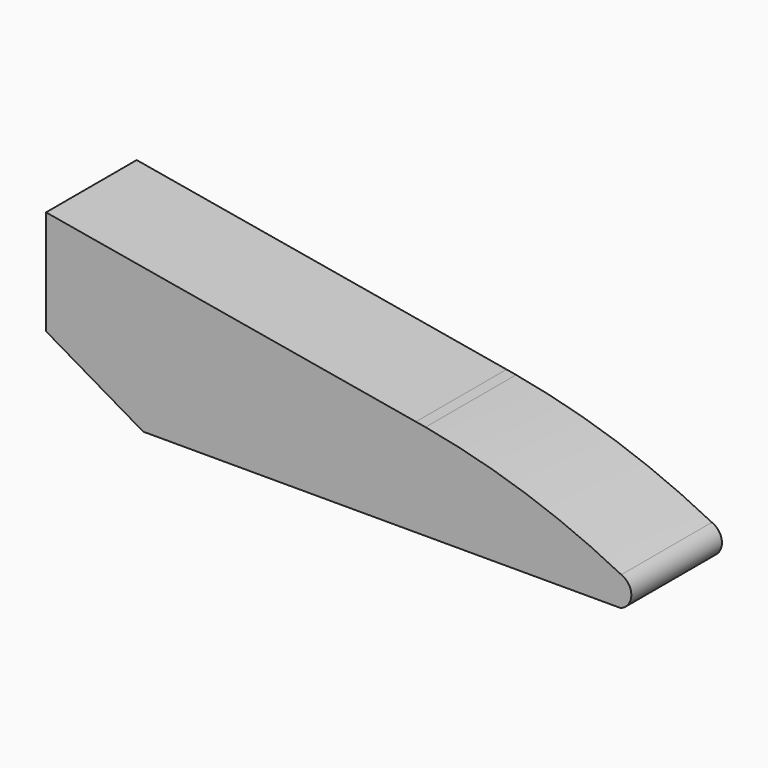
from build123d import *

# Parameters (mm, degrees)
F1_DEPTH = 41.275
F2_R     = 10.3124
F3_DEPTH = 50.8
F5_DEPTH = 41.276


with BuildPart() as f1:
    # F0 (on Front) → F1 (new body)
    with BuildSketch(Plane.XZ):
        Polygon((0, 71.4375), (0, 0), (304.8, 0), (304.8, 15.875), align=None)
    extrude(amount=F1_DEPTH)

    # F2 (on face) → F3 (cut)
    with BuildSketch(Plane(origin=(0, 0, 0), x_dir=(0, -1, 0), z_dir=(-1, 0, 0))):
        with Locations((20.6375, 32.5501)):
            Circle(F2_R)
    extrude(amount=-F3_DEPTH, mode=Mode.SUBTRACT)

    # F4 (on face) → F5 (cut, through all)
    with BuildSketch(Plane.XZ.offset(41.275)):
        Polygon((35.428196, 0), (0, 20.679992), (0, 0), align=None)
        with BuildLine():
            ThreePointArc((138.269581, 34.907452), (174.836839, 25.4808), (209.619478, 10.777256))
            ThreePointArc((209.619478, 10.777256), (213.276315, 5.277363), (209.305078, 0))
            Line((209.305078, 0), (304.8, 0))
            Line((304.8, 0), (304.8, 15.875))
            Line((304.8, 15.875), (0, 71.4375))
            Line((0, 71.4375), (0, 58.861777))
            Line((0, 58.861777), (134.772693, 35.513265))
            ThreePointArc((134.772693, 35.513265), (136.522187, 35.216418), (138.269581, 34.907452))
        make_face()
    extrude(amount=-F5_DEPTH, mode=Mode.SUBTRACT)


solid = f1.part
